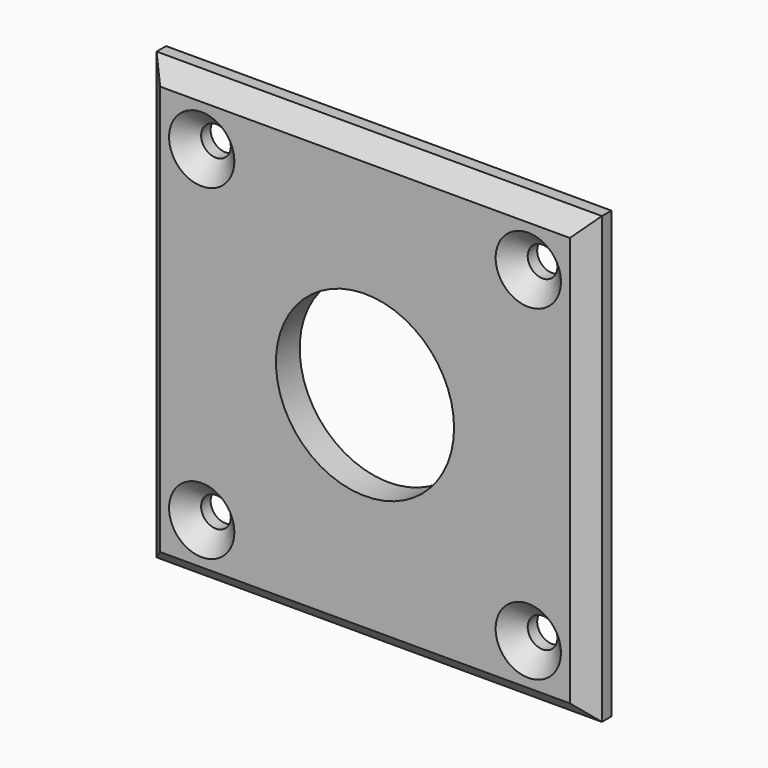
from build123d import *

# Parameters (mm, degrees)
F0_W     = 75
F0_H     = 75
F0_R     = 2.5
F0_R_2   = 15
F1_DEPTH = 5
F2_SIZE  = 3


with BuildPart() as f1:
    # F0 (on Front) → F1 (new body)
    with BuildSketch(Plane.XZ):
        with Locations((37.5, 37.5)):
            Rectangle(F0_W, F0_H)
        with Locations((10, 10)):
            Circle(F0_R, mode=Mode.SUBTRACT)
        with Locations((65, 10)):
            Circle(F0_R, mode=Mode.SUBTRACT)
        with Locations((10, 65)):
            Circle(F0_R, mode=Mode.SUBTRACT)
        with Locations((37.5, 37.5)):
            Circle(F0_R_2, mode=Mode.SUBTRACT)
        with Locations((65, 65)):
            Circle(F0_R, mode=Mode.SUBTRACT)
    extrude(amount=F1_DEPTH)

    # F2
    f2_edges = [f1.edges().sort_by_distance(p)[0] for p in [
        (75, -5, 37.5),
        (37.5, -5, 0),
        (37.5, -5, 75),
        (0, -5, 37.5),
        (7.5, -5, 65),
        (7.5, -5, 10),
        (62.5, -5, 10),
        (62.5, -5, 65),
    ]]
    chamfer(f2_edges, length=F2_SIZE)


solid = f1.part
